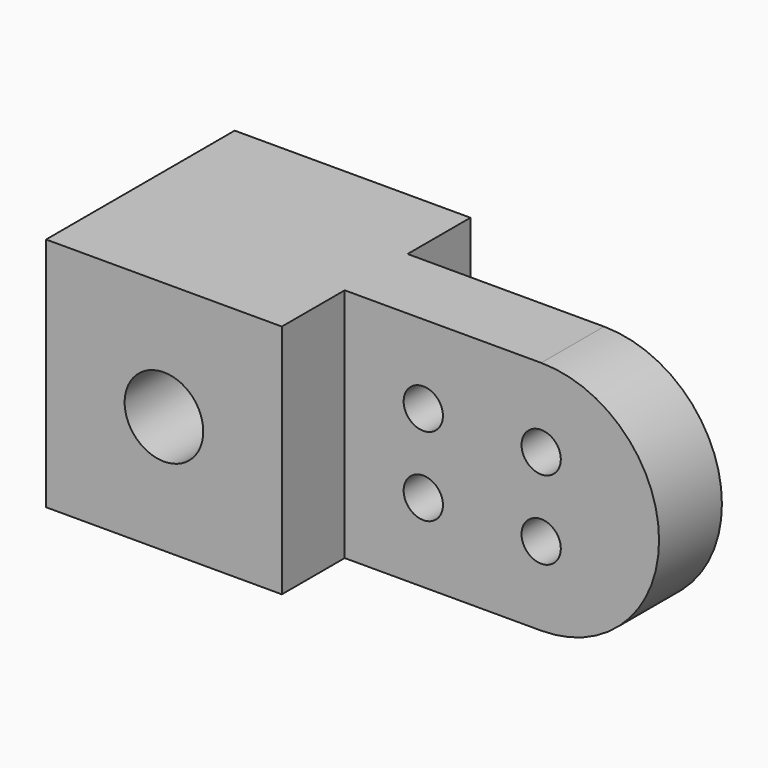
from build123d import *

# Parameters (mm, degrees)
F0_R     = 3.175
F1_DEPTH = 6.35
F0_W     = 38.1
F0_H     = 38.1
F0_R_2   = 6.35
F2_DEPTH = 19.05


with BuildPart() as f1:
    # F0 (on Front) → F1 (new body, symmetric)
    with BuildSketch(Plane.XZ):
        with BuildLine():
            Line((38.1, 38.1), (38.1, 0))
            Line((38.1, 0), (69.85, 0))
            ThreePointArc((69.85, 0), (88.9, 19.05), (69.85, 38.1))
            Line((69.85, 38.1), (38.1, 38.1))
        make_face()
        with Locations((50.8, 12.7)):
            Circle(F0_R, mode=Mode.SUBTRACT)
        with Locations((69.85, 12.7)):
            Circle(F0_R, mode=Mode.SUBTRACT)
        with Locations((50.8, 25.4)):
            Circle(F0_R, mode=Mode.SUBTRACT)
        with Locations((69.85, 25.4)):
            Circle(F0_R, mode=Mode.SUBTRACT)
    extrude(amount=F1_DEPTH, both=True)

    # F0 (on Front) → F2 (join, symmetric)
    with BuildSketch(Plane.XZ):
        with Locations((19.05, 19.05)):
            Rectangle(F0_W, F0_H)
        with Locations((19.05, 19.05)):
            Circle(F0_R_2, mode=Mode.SUBTRACT)
    extrude(amount=F2_DEPTH, both=True)


solid = f1.part
